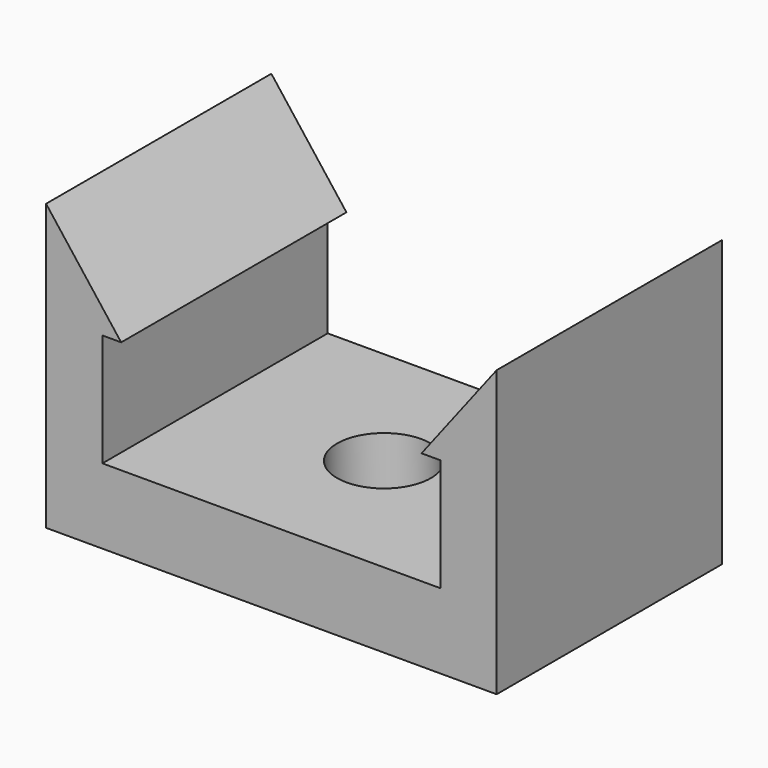
from build123d import *

# Parameters (mm, degrees)
F1_DEPTH = 15
F4_D     = 5


with BuildPart() as f1:
    # F0 (on Front) → F1 (new body)
    with BuildSketch(Plane.XZ):
        Polygon((0, 0), (12, 0), (12, 15.199336), (8, 10), (9, 10), (9, 4), (0, 4), align=None)
    extrude(amount=F1_DEPTH)

    # F2: F1 across face


with BuildPart() as f1_1:
    add(f1.part)
    add(f1.part.mirror(Plane(origin=(0, -7.5, 2), x_dir=(0, -1, 0), z_dir=(-1, 0, 0))))

    # F4 (through all)
    with Locations(Plane.XY.offset(4)):
        with Locations((0, -7.5)):
            Hole(F4_D / 2)


solid = f1_1.part
